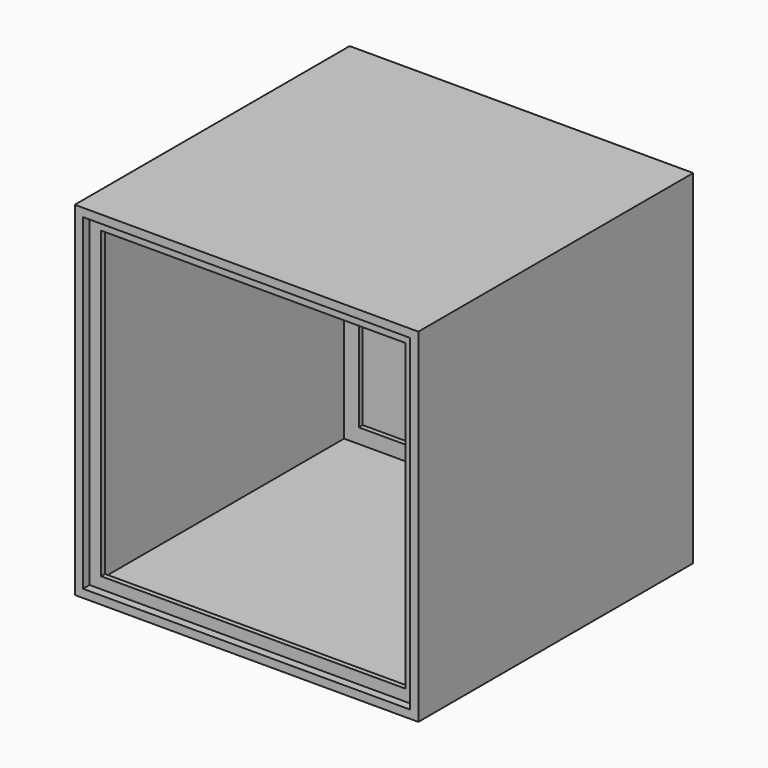
from build123d import *

# Parameters (mm, degrees)
F0_W      = 420
F0_H      = 420
F1_DEPTH  = 105
F2_T      = -6
F3_W      = 6
F3_H      = 408
F4_DEPTH  = 18
F5_W      = 6
F5_H      = 408
F6_DEPTH  = 18
F7_W      = 6
F7_H      = 18
F8_DEPTH  = 372
F9_W      = 6
F9_H      = 18
F10_DEPTH = 372
F11_W     = 408
F11_H     = 408
F11_W_2   = 400
F11_H_2   = 400
F12_DEPTH = 10
F14_DEPTH = 25.4
F15_W     = 400
F15_H     = 400
F16_DEPTH = 10


with BuildPart() as f1:
    # F0 (on Front) → F1 (new body, symmetric)
    with BuildSketch(Plane.XZ):
        Rectangle(F0_W, F0_H)
    extrude(amount=F1_DEPTH, both=True)

    # F2
    f2_openings = [f1.faces().sort_by_distance(p)[0] for p in [
        (0, -105, 0),
    ]]
    offset(amount=F2_T, openings=f2_openings)

    # F3 (on face) → F4 (join)
    with BuildSketch(Plane.YZ.offset(-204)):
        with Locations((-92, 0)):
            Rectangle(F3_W, F3_H)
    extrude(amount=F4_DEPTH)

    # F5 (on face) → F6 (join)
    with BuildSketch(Plane(origin=(204, 0, 0), x_dir=(0, -1, 0), z_dir=(-1, 0, 0))):
        with Locations((92, 0)):
            Rectangle(F5_W, F5_H)
    extrude(amount=F6_DEPTH)

    # F7 (on face) → F8 (join, through all)
    with BuildSketch(Plane.YZ.offset(-186)):
        with Locations((-92, 195)):
            Rectangle(F7_W, F7_H)
    extrude(amount=F8_DEPTH)

    # F9 (on face) → F10 (join, through all)
    with BuildSketch(Plane.YZ.offset(-186)):
        with Locations((-92, -195)):
            Rectangle(F9_W, F9_H)
    extrude(amount=F10_DEPTH)

    # F11 (on face) → F12 (join)
    with BuildSketch(Plane.XZ.offset(95)):
        Rectangle(F11_W, F11_H)
        Rectangle(F11_W_2, F11_H_2, mode=Mode.SUBTRACT)
    extrude(amount=F12_DEPTH)

    # F13: F1 across face


with BuildPart() as f1_1:
    add(f1.part)
    add(f1.part.mirror(Plane(origin=(0, 105, 0), x_dir=(1, 0, 0), z_dir=(0, 1, 0))))

    # F14 (cut): a face of the model
    f14_faces = [f1_1.faces().sort_by_distance(p)[0] for p in [
        (0, 111, 0),
    ]]
    extrude(f14_faces, amount=-F14_DEPTH, mode=Mode.SUBTRACT)

    # F15 (on face) → F16 (join)
    with BuildSketch(Plane(origin=(0, 305, 0), x_dir=(-1, 0, 0), z_dir=(0, 1, 0))):
        Rectangle(F15_W, F15_H)
    extrude(amount=F16_DEPTH)


solid = f1_1.part
